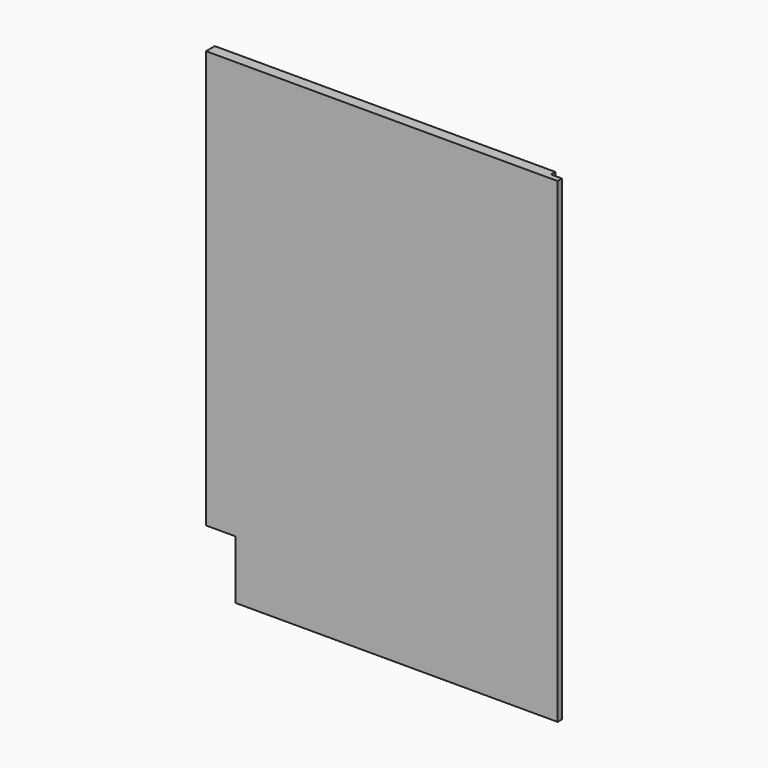
from build123d import *

# Parameters (mm, degrees)
F1_DEPTH = 19.05
F3_DEPTH = 9.525


with BuildPart() as f1:
    # F0 (on Front) → F1 (new body)
    with BuildSketch(Plane.XZ):
        Polygon((-558.8, 0), (0, 0), (0, 825.5), (-609.6, 825.5), (-609.6, 101.6), (-558.8, 101.6), align=None)
    extrude(amount=F1_DEPTH)

    # F2 (on face) → F3 (cut)
    with BuildSketch(Plane(origin=(0, 0, 0), x_dir=(-1, 0, 0), z_dir=(0, 1, 0))):
        Polygon((19.05, 825.5), (0, 825.5), (0, 0), (19.05, 0), (19.05, 101.6), (558.8, 101.6), (577.85, 101.6), (577.85, 120.65), (19.05, 120.65), align=None)
    extrude(amount=-F3_DEPTH, mode=Mode.SUBTRACT)


solid = f1.part
